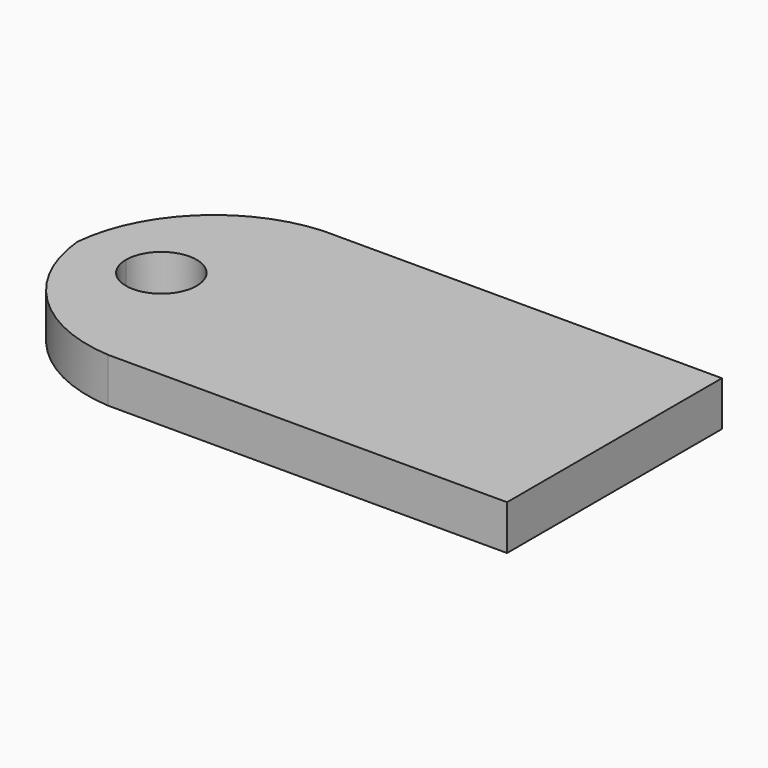
from build123d import *

# Parameters (mm, degrees)
F0_W     = 38.1
F0_H     = 19.05
F1_DEPTH = 3.175
F3_DEPTH = 3.176


with BuildPart() as f1:
    # F0 (on Top) → F1 (new body)
    with BuildSketch(Plane.XY):
        with Locations((-19.05, 9.525)):
            Rectangle(F0_W, F0_H)
    extrude(amount=F1_DEPTH)

    # F2 (on face) → F3 (cut, through all)
    with BuildSketch(Plane.XY.offset(3.175)):
        with BuildLine():
            Line((-38.1, 19.05), (-38.1, 9.525))
            ThreePointArc((-38.1, 9.525), (-34.9598934499, 16.0962844851), (-28.3027458936, 19.05))
            Line((-28.3027458936, 19.05), (-38.1, 19.05))
        make_face()
        with BuildLine():
            ThreePointArc((-28.3027458936, 0), (-34.9598934499, 2.9537155149), (-38.1, 9.525))
            Line((-38.1, 9.525), (-38.1, 0))
            Line((-38.1, 0), (-28.3027458936, 0))
        make_face()
        with BuildLine():
            Line((-34.6499329988, 9.525), (-29.6328344759, 9.525))
            ThreePointArc((-29.6328344759, 9.525), (-32.1413837373, 12.0335492614), (-34.6499329988, 9.525))
        make_face()
        with BuildLine():
            ThreePointArc((-34.6499329988, 9.525), (-32.1413837373, 7.0164507386), (-29.6328344759, 9.525))
            Line((-29.6328344759, 9.525), (-34.6499329988, 9.525))
        make_face()
    extrude(amount=-F3_DEPTH, mode=Mode.SUBTRACT)


solid = f1.part
